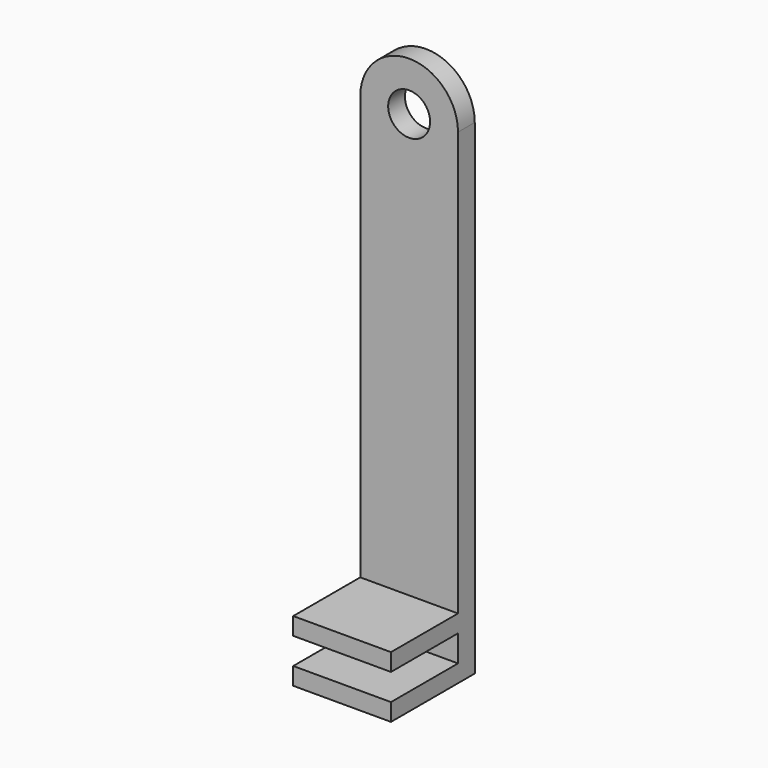
from build123d import *

# Parameters (mm, degrees)
F0_W     = 7
F0_H     = 1.9
F0_H_2   = 1.25
F1_DEPTH = 1.5
F2_DEPTH = 6


with BuildPart() as f1:
    # F0 (on Front) → F1 (new body)
    with BuildSketch(Plane.XZ):
        with BuildLine():
            Line((3.5, 17.375), (1.5, 17.375))
            ThreePointArc((1.5, 17.375), (0, 15.875), (-1.5, 17.375))
            Line((-1.5, 17.375), (-3.5, 17.375))
            Line((-3.5, 17.375), (-3.5, -12.975))
            Line((-3.5, -12.975), (3.5, -12.975))
            Line((3.5, -12.975), (3.5, 17.375))
        make_face()
        with Locations((0, -15.175)):
            Rectangle(F0_W, F0_H)
        with Locations((0, -16.75)):
            Rectangle(F0_W, F0_H_2)
        with BuildLine():
            ThreePointArc((-1.5, 17.375), (0, 18.875), (1.5, 17.375))
            Line((1.5, 17.375), (3.5, 17.375))
            ThreePointArc((3.5, 17.375), (0, 20.875), (-3.5, 17.375))
            Line((-3.5, 17.375), (-1.5, 17.375))
        make_face()
        with Locations((0, -13.6)):
            Rectangle(F0_W, F0_H_2)
        with BuildLine():
            Line((3.5, 17.375), (1.5, 17.375))
            ThreePointArc((1.5, 17.375), (0, 15.875), (-1.5, 17.375))
            Line((-1.5, 17.375), (-3.5, 17.375))
            Line((-3.5, 17.375), (-3.5, -12.975))
            Line((-3.5, -12.975), (3.5, -12.975))
            Line((3.5, -12.975), (3.5, 17.375))
        make_face()
    extrude(amount=-F1_DEPTH)

    # F0 (on Front) → F2 (join)
    with BuildSketch(Plane.XZ):
        with Locations((0, -16.75)):
            Rectangle(F0_W, F0_H_2)
        with Locations((0, -13.6)):
            Rectangle(F0_W, F0_H_2)
    extrude(amount=F2_DEPTH)


solid = f1.part
